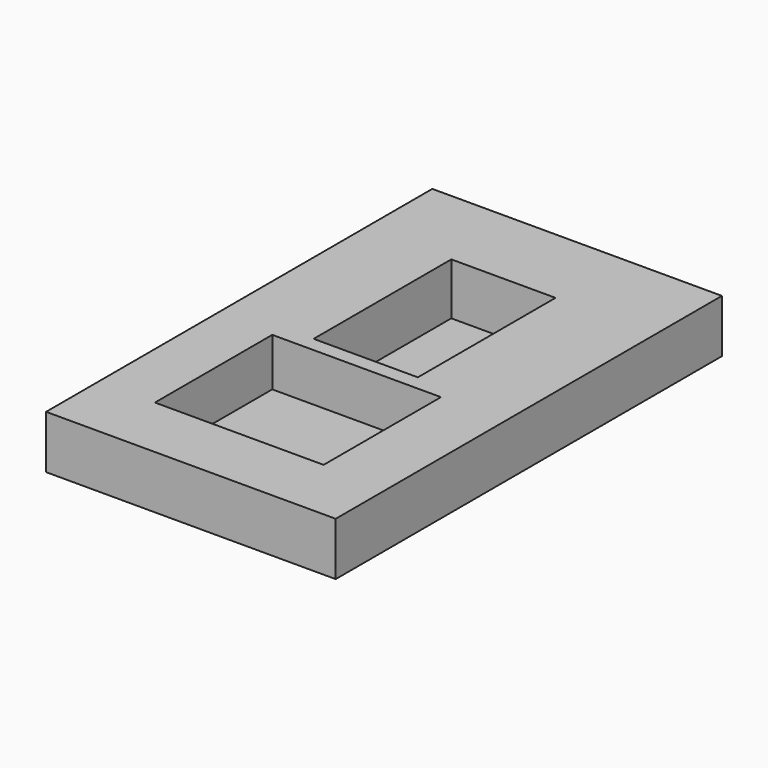
from build123d import *

# Parameters (mm, degrees)
F0_W     = 56.681249
F0_H     = 10.396719
F1_DEPTH = 94.488
F2_W     = 31.195983
F2_H     = 31.680895
F3_DEPTH = 2.54
F4_W     = 20.394963
F4_H     = 33.683496
F5_DEPTH = 10.16
F6_W     = 33.012585
F6_H     = 28.702568
F7_DEPTH = 9.398


with BuildPart() as f1:
    # F0 (on Front) → F1 (new body)
    with BuildSketch(Plane.XZ):
        with Locations((-8.483941, 22.552885)):
            Rectangle(F0_W, F0_H)
    extrude(amount=F1_DEPTH)

    # F2 (on face) → F3 (join)
    with BuildSketch(Plane.XY.offset(27.751245)):
        with Locations((-9.093156, -17.717516)):
            Rectangle(F2_W, F2_H)
    extrude(amount=-F3_DEPTH)

    # F4 (on face) → F5 (cut)
    with BuildSketch(Plane.XY.offset(27.751245)):
        with Locations((-9.785975, -33.244646)):
            Rectangle(F4_W, F4_H)
    extrude(amount=-F5_DEPTH, mode=Mode.SUBTRACT)

    # F6 (on face) → F7 (cut)
    with BuildSketch(Plane.XY.offset(27.751245)):
        with Locations((-9.240382, -67.351179)):
            Rectangle(F6_W, F6_H)
    extrude(amount=-F7_DEPTH, mode=Mode.SUBTRACT)


solid = f1.part
